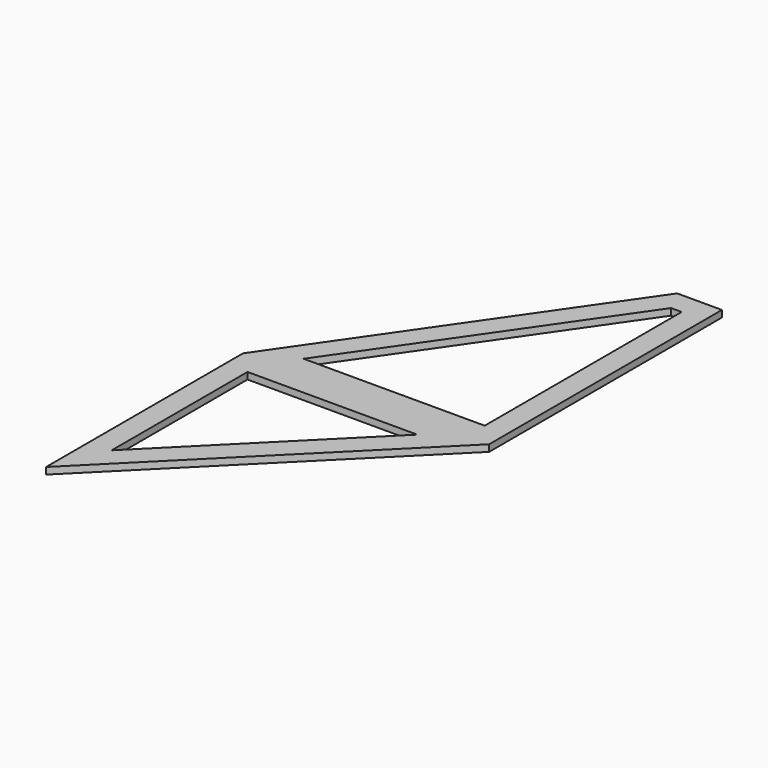
from build123d import *

# Parameters (mm, degrees)
F1_DEPTH = 1.5


with BuildPart() as f1:
    # F0 (on Top) → F1 (new body)
    with BuildSketch(Plane.XY):
        Polygon((45, 65), (0, 0), (55, 0), (55, 65), align=None)
        Polygon((9.542842, 5), (47.619765, 60), (50, 60), (50, 5), align=None, mode=Mode.SUBTRACT)
        Polygon((55, 0), (0, 0), (0, -55), align=None)
        Polygon((5, -42.928932), (5, -5), (42.928932, -5), align=None, mode=Mode.SUBTRACT)
    extrude(amount=F1_DEPTH)


solid = f1.part
